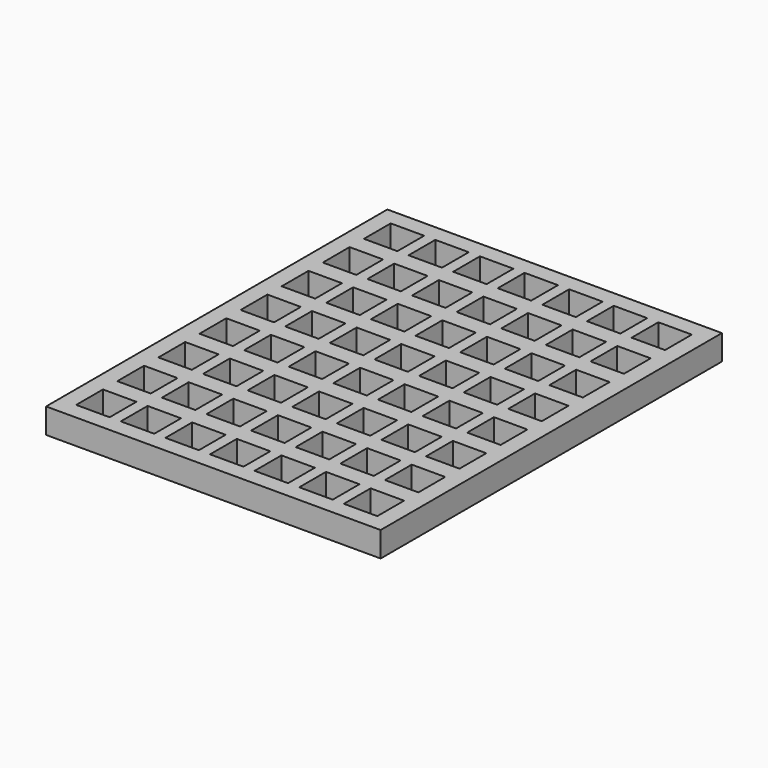
from build123d import *

# Parameters (mm, degrees)
SKETCH_W                     = 40
SKETCH_H                     = 51
PAD_DEPTH                    = 3
SKETCH001_W                  = 4
SKETCH001_H                  = 4
POCKET_DEPTH                 = 132.770026
SKETCH001_LINEARPATTERN_2_W  = 4
SKETCH001_LINEARPATTERN_2_H  = 4
POCKET_LINEARPATTERN_2_DEPTH = 132.770026
SKETCH001_LINEARPATTERN_3_W  = 4
SKETCH001_LINEARPATTERN_3_H  = 4
POCKET_LINEARPATTERN_3_DEPTH = 132.770026
SKETCH001_LINEARPATTERN_4_W  = 4
SKETCH001_LINEARPATTERN_4_H  = 4
POCKET_LINEARPATTERN_4_DEPTH = 132.770026
SKETCH001_LINEARPATTERN_5_W  = 4
SKETCH001_LINEARPATTERN_5_H  = 4
POCKET_LINEARPATTERN_5_DEPTH = 132.770026
SKETCH001_LINEARPATTERN_6_W  = 4
SKETCH001_LINEARPATTERN_6_H  = 4
POCKET_LINEARPATTERN_6_DEPTH = 132.770026
SKETCH001_LINEARPATTERN_7_W  = 4
SKETCH001_LINEARPATTERN_7_H  = 4
POCKET_LINEARPATTERN_7_DEPTH = 132.770026
LINEARPATTERN001_COUNT       = 8
LINEARPATTERN001_PITCH       = 6.142857


with BuildPart() as part:
    # Sketch → Pad (new body)
    with BuildSketch(Plane.XY):
        Rectangle(SKETCH_W, SKETCH_H)
    extrude(amount=PAD_DEPTH)

    # Sketch001 (on Face6 of Pad) → Pocket (cut, through all)
    with BuildSketch(Plane.XY.offset(3)):
        with Locations((-16, 21.5)):
            Rectangle(SKETCH001_W, SKETCH001_H)
    pocket = extrude(amount=-POCKET_DEPTH, mode=Mode.SUBTRACT)

    # Sketch001 LinearPattern 2 → Pocket LinearPattern 2 (cut, through all)
    with BuildSketch(Plane(origin=(5.333333, 0, 3), x_dir=(1, 0, 0), z_dir=(0, 0, 1))):
        with Locations((-16, 21.5)):
            Rectangle(SKETCH001_LINEARPATTERN_2_W, SKETCH001_LINEARPATTERN_2_H)
    pocket_linearpattern_2 = extrude(amount=-POCKET_LINEARPATTERN_2_DEPTH, mode=Mode.SUBTRACT)

    # Sketch001 LinearPattern 3 → Pocket LinearPattern 3 (cut, through all)
    with BuildSketch(Plane(origin=(10.666667, 0, 3), x_dir=(1, 0, 0), z_dir=(0, 0, 1))):
        with Locations((-16, 21.5)):
            Rectangle(SKETCH001_LINEARPATTERN_3_W, SKETCH001_LINEARPATTERN_3_H)
    pocket_linearpattern_3 = extrude(amount=-POCKET_LINEARPATTERN_3_DEPTH, mode=Mode.SUBTRACT)

    # Sketch001 LinearPattern 4 → Pocket LinearPattern 4 (cut, through all)
    with BuildSketch(Plane(origin=(16, 0, 3), x_dir=(1, 0, 0), z_dir=(0, 0, 1))):
        with Locations((-16, 21.5)):
            Rectangle(SKETCH001_LINEARPATTERN_4_W, SKETCH001_LINEARPATTERN_4_H)
    pocket_linearpattern_4 = extrude(amount=-POCKET_LINEARPATTERN_4_DEPTH, mode=Mode.SUBTRACT)

    # Sketch001 LinearPattern 5 → Pocket LinearPattern 5 (cut, through all)
    with BuildSketch(Plane(origin=(21.333333, 0, 3), x_dir=(1, 0, 0), z_dir=(0, 0, 1))):
        with Locations((-16, 21.5)):
            Rectangle(SKETCH001_LINEARPATTERN_5_W, SKETCH001_LINEARPATTERN_5_H)
    pocket_linearpattern_5 = extrude(amount=-POCKET_LINEARPATTERN_5_DEPTH, mode=Mode.SUBTRACT)

    # Sketch001 LinearPattern 6 → Pocket LinearPattern 6 (cut, through all)
    with BuildSketch(Plane(origin=(26.666667, 0, 3), x_dir=(1, 0, 0), z_dir=(0, 0, 1))):
        with Locations((-16, 21.5)):
            Rectangle(SKETCH001_LINEARPATTERN_6_W, SKETCH001_LINEARPATTERN_6_H)
    pocket_linearpattern_6 = extrude(amount=-POCKET_LINEARPATTERN_6_DEPTH, mode=Mode.SUBTRACT)

    # Sketch001 LinearPattern 7 → Pocket LinearPattern 7 (cut, through all)
    with BuildSketch(Plane(origin=(32, 0, 3), x_dir=(1, 0, 0), z_dir=(0, 0, 1))):
        with Locations((-16, 21.5)):
            Rectangle(SKETCH001_LINEARPATTERN_7_W, SKETCH001_LINEARPATTERN_7_H)
    pocket_linearpattern_7 = extrude(amount=-POCKET_LINEARPATTERN_7_DEPTH, mode=Mode.SUBTRACT)

    # LinearPattern001: Pocket, Pocket LinearPattern 2, Pocket LinearPattern 3, Pocket LinearPattern 4, Pocket LinearPattern 5, Pocket LinearPattern 6, Pocket LinearPattern 7 ×8
    with Locations(*[(0, -i * LINEARPATTERN001_PITCH, 0) for i in range(1, LINEARPATTERN001_COUNT)]):
        add(pocket, mode=Mode.SUBTRACT)
        add(pocket_linearpattern_2, mode=Mode.SUBTRACT)
        add(pocket_linearpattern_3, mode=Mode.SUBTRACT)
        add(pocket_linearpattern_4, mode=Mode.SUBTRACT)
        add(pocket_linearpattern_5, mode=Mode.SUBTRACT)
        add(pocket_linearpattern_6, mode=Mode.SUBTRACT)
        add(pocket_linearpattern_7, mode=Mode.SUBTRACT)


solid = part.part
